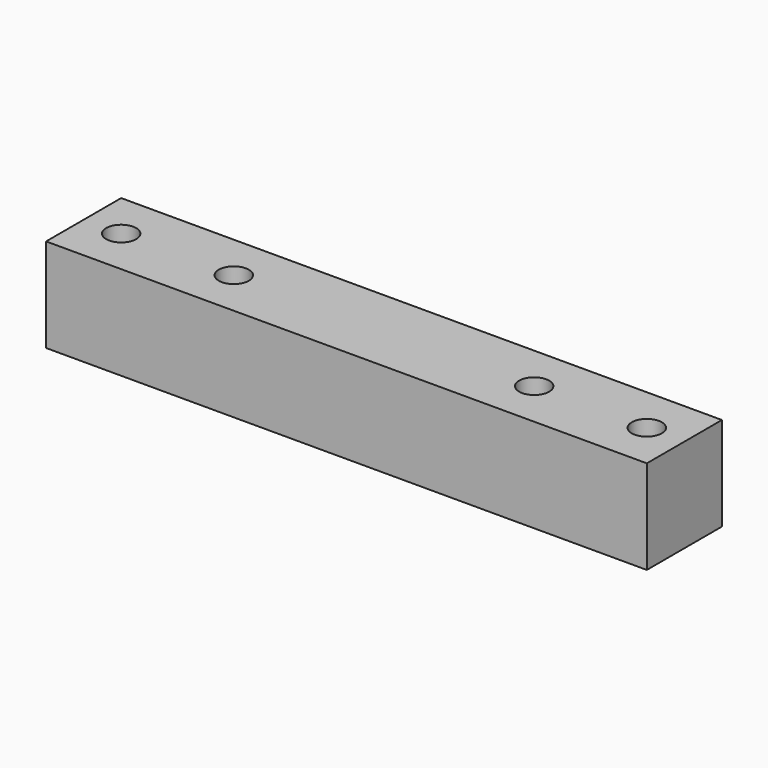
from build123d import *

# Parameters (mm, degrees)
CYLINDER001_R     = 2
CYLINDER001_DEPTH = 13
CYLINDER002_R     = 2
CYLINDER002_DEPTH = 13
CYLINDER003_R     = 2
CYLINDER003_DEPTH = 13
CYLINDER_R        = 2
CYLINDER_DEPTH    = 13
BOX_W             = 80
BOX_H             = 12.5
BOX_DEPTH         = 12.5


with BuildPart() as cylinder001:
    # Cylinder001 → Cylinder001 (new body)
    with BuildSketch(Plane(origin=(20, 6.25, 0), x_dir=(1, 0, 0), z_dir=(0, 0, 1))):
        Circle(CYLINDER001_R)
    extrude(amount=CYLINDER001_DEPTH)


with BuildPart() as cylinder002:
    # Cylinder002 → Cylinder002 (new body)
    with BuildSketch(Plane(origin=(75, 6.25, 0), x_dir=(1, 0, 0), z_dir=(0, 0, 1))):
        Circle(CYLINDER002_R)
    extrude(amount=CYLINDER002_DEPTH)


with BuildPart() as cylinder003:
    # Cylinder003 → Cylinder003 (new body)
    with BuildSketch(Plane(origin=(60, 6.25, 0), x_dir=(1, 0, 0), z_dir=(0, 0, 1))):
        Circle(CYLINDER003_R)
    extrude(amount=CYLINDER003_DEPTH)


with BuildPart() as agujeroseje:
    # Cylinder → Cylinder (new body)
    with BuildSketch(Plane(origin=(5, 6.25, 0), x_dir=(1, 0, 0), z_dir=(0, 0, 1))):
        Circle(CYLINDER_R)
    extrude(amount=CYLINDER_DEPTH)

    # Compound: union Cylinder001, Cylinder002, Cylinder003
    add(cylinder001.part)
    add(cylinder002.part)
    add(cylinder003.part)


with BuildPart() as eje:
    # Box → Box (new body)
    with BuildSketch(Plane.XY):
        with Locations((40, 6.25)):
            Rectangle(BOX_W, BOX_H)
    extrude(amount=BOX_DEPTH)

    # Cut: cut AgujerosEje
    add(agujeroseje.part, mode=Mode.SUBTRACT)


solid = eje.part
